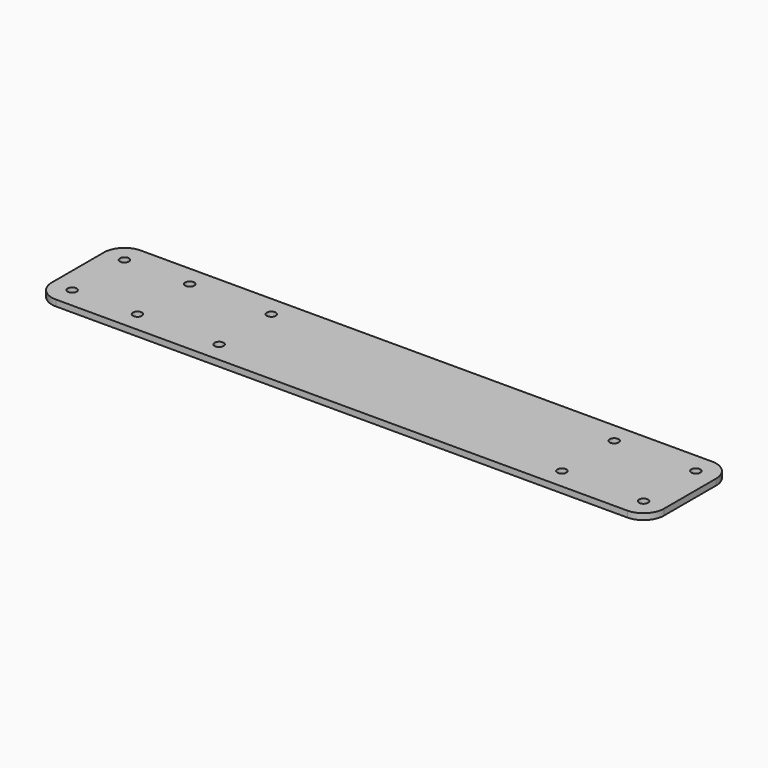
from build123d import *

# Parameters (mm, degrees)
F1_DEPTH = 3
F3_D     = 4.4


with BuildPart() as f1:
    # F0 (on Top) → F1 (new body)
    with BuildSketch(Plane.XY):
        with BuildLine():
            Line((-140, -26), (140, -26))
            ThreePointArc((140, -26), (147.0710678119, -23.0710678119), (150, -16))
            Line((150, -16), (150, 16))
            ThreePointArc((150, 16), (147.0710678119, 23.0710678119), (140, 26))
            Line((140, 26), (-140, 26))
            ThreePointArc((-140, 26), (-147.0710678119, 23.0710678119), (-150, 16))
            Line((-150, 16), (-150, -16))
            ThreePointArc((-150, -16), (-147.0710678119, -23.0710678119), (-140, -26))
        make_face()
    extrude(amount=F1_DEPTH)

    # F3 (through all)
    with Locations(Plane.XY.offset(3)):
        with Locations((-140, 16), (-140, -16), (-108, -16), (-108, 16), (-68, 16), (-68, -16), (140, 16), (100, 16), (100, -16), (140, -16)):
            Hole(F3_D / 2)


solid = f1.part
